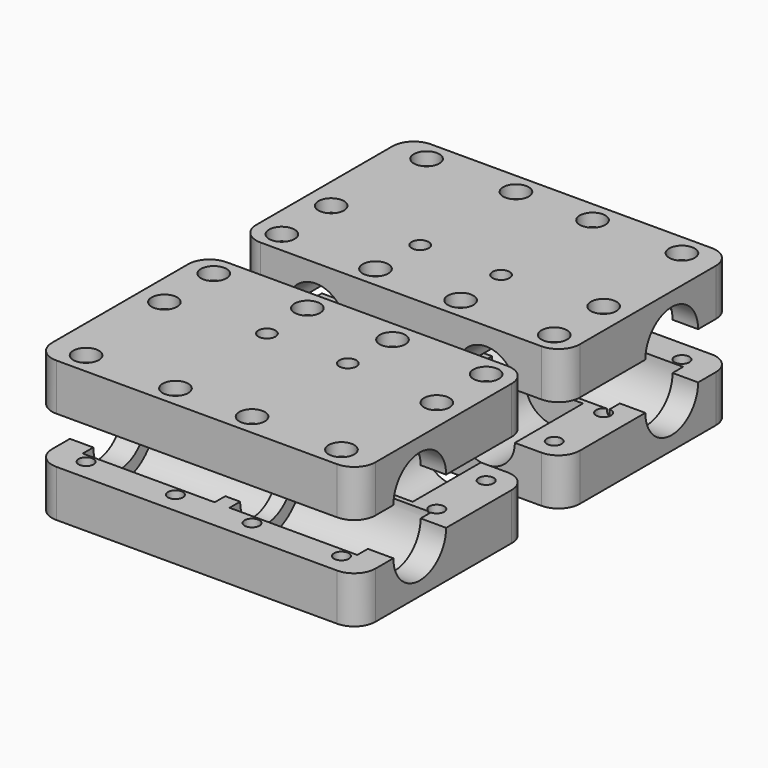
from build123d import *

# Parameters (mm, degrees)
F0_W      = 76
F0_H      = 50
F1_DEPTH  = 5.5
F2_R      = 1.75
F2_R_2    = 2
F3_DEPTH  = 11.001
F4_R      = 6.75
F5_DEPTH  = 20
F7_DEPTH  = 3
F8_R      = 7.75
F9_DEPTH  = 76.001
F11_START = -5.5
F10_R     = 10.85
F11_DEPTH = 31
F12_R     = 5
F13_START = -40
F13_DEPTH = 30
F16_R     = 3
F17_DEPTH = 3
F19_DEPTH = 3


with BuildPart() as f1:
    # F0 (on Top) → F1 (new body, symmetric)
    with BuildSketch(Plane.XY):
        Rectangle(F0_W, F0_H)
    extrude(amount=F1_DEPTH, both=True)

    # F2 (on face) → F3 (cut, through all)
    with BuildSketch(Plane.XY.offset(5.5)):
        with Locations((-30, 20)):
            Circle(F2_R)
        with Locations((-9, 20)):
            Circle(F2_R)
        with Locations((9, 20)):
            Circle(F2_R)
        with Locations((30, 20)):
            Circle(F2_R)
        with Locations((-32, -20)):
            Circle(F2_R)
        with Locations((-10, -20)):
            Circle(F2_R)
        with Locations((10, -20)):
            Circle(F2_R)
        with Locations((32, -20)):
            Circle(F2_R)
        with Locations((32, -5.5)):
            Circle(F2_R)
        with Locations((-9.5, -7.5)):
            Circle(F2_R_2)
        with Locations((9.5, -7.5)):
            Circle(F2_R_2)
        with Locations((-32, -5.5)):
            Circle(F2_R)
    extrude(amount=-F3_DEPTH, mode=Mode.SUBTRACT)

    # F4 (on face) → F5 (cut)
    with BuildSketch(Plane.XZ.offset(25)):
        with Locations((-20, 5.5)):
            Circle(F4_R)
        with Locations((20, 5.5)):
            Circle(F4_R)
    extrude(amount=-F5_DEPTH, mode=Mode.SUBTRACT)

    # F6 (on face) → F7 (cut)
    with BuildSketch(Plane(origin=(0, 0, -5.5), x_dir=(1, 0, 0), z_dir=(0, 0, -1))):
        Polygon((-33.5, 17.4019237886), (-30.5, 17.4019237886), (-29, 20), (-30.5, 22.5980762114), (-33.5, 22.5980762114), (-35, 20), align=None)
        Polygon((8.5, 17.4019237886), (11.5, 17.4019237886), (13, 20), (11.5, 22.5980762114), (8.5, 22.5980762114), (7, 20), align=None)
        Polygon((-11.5, 17.4019237886), (-8.5, 17.4019237886), (-7, 20), (-8.5, 22.5980762114), (-11.5, 22.5980762114), (-13, 20), align=None)
        Polygon((30.5, 17.4019237886), (33.5, 17.4019237886), (35, 20), (33.5, 22.5980762114), (30.5, 22.5980762114), (29, 20), align=None)
        Polygon((-33.5, 2.9019237886), (-30.5, 2.9019237886), (-29, 5.5), (-30.5, 8.0980762114), (-33.5, 8.0980762114), (-35, 5.5), align=None)
        Polygon((-31.5, -22.5980762114), (-28.5, -22.5980762114), (-27, -20), (-28.5, -17.4019237886), (-31.5, -17.4019237886), (-33, -20), align=None)
        Polygon((-10.5, -22.5980762114), (-7.5, -22.5980762114), (-6, -20), (-7.5, -17.4019237886), (-10.5, -17.4019237886), (-12, -20), align=None)
        Polygon((7.5, -22.5980762114), (10.5, -22.5980762114), (12, -20), (10.5, -17.4019237886), (7.5, -17.4019237886), (6, -20), align=None)
        Polygon((28.5, -22.5980762114), (31.5, -22.5980762114), (33, -20), (31.5, -17.4019237886), (28.5, -17.4019237886), (27, -20), align=None)
        Polygon((30.5, 2.9019237886), (33.5, 2.9019237886), (35, 5.5), (33.5, 8.0980762114), (30.5, 8.0980762114), (29, 5.5), align=None)
    extrude(amount=-F7_DEPTH, mode=Mode.SUBTRACT)

    # F8 (on face) → F9 (cut, through all)
    with BuildSketch(Plane(origin=(-38, 0, 0), x_dir=(0, -1, 0), z_dir=(-1, 0, 0))):
        with Locations((-7, 5.5)):
            Circle(F8_R)
    extrude(amount=-F9_DEPTH, mode=Mode.SUBTRACT)

    # F10 (on face) → F11 (cut)
    with BuildSketch(Plane(origin=(-38, 0, 0), x_dir=(0, -1, 0), z_dir=(-1, 0, 0)).offset(F11_START)):
        with Locations((-7, 5.5)):
            Circle(F10_R)
    extrude(amount=-F11_DEPTH, mode=Mode.SUBTRACT)

    # F12
    f12_edges = [f1.edges().sort_by_distance(p)[0] for p in [
        (38, -25, 0),
        (-38, -25, 0),
        (-38, 25, 0),
        (38, 25, 0),
    ]]
    fillet(f12_edges, radius=F12_R)

    # F10 (on face) → F13 (cut)
    with BuildSketch(Plane(origin=(-38, 0, 0), x_dir=(0, -1, 0), z_dir=(-1, 0, 0)).offset(F13_START)):
        with Locations((-7, 5.5)):
            Circle(F10_R)
    extrude(amount=-F13_DEPTH, mode=Mode.SUBTRACT)


with BuildPart() as f15_1:
    # F15: instance of F1
    add(f1.part.mirror(Plane.XY.offset(11)))

    # F16 (on face) → F17 (cut)
    with BuildSketch(Plane.XY.offset(27.5)):
        with Locations((-30, 20)):
            Circle(F16_R)
        with Locations((-9, 20)):
            Circle(F16_R)
        with Locations((-49.465674907, 3.9686970413)):
            Circle(F16_R)
        with Locations((-32, -5.5)):
            Circle(F16_R)
        with Locations((-32, -20)):
            Circle(F16_R)
        with Locations((32, -5.5)):
            Circle(F16_R)
        with Locations((32, -20)):
            Circle(F16_R)
        with Locations((10, -20)):
            Circle(F16_R)
        with Locations((-10, -20)):
            Circle(F16_R)
        with Locations((30, 20)):
            Circle(F16_R)
        with Locations((9, 20)):
            Circle(F16_R)
    extrude(amount=-F17_DEPTH, mode=Mode.SUBTRACT)


with BuildPart() as f1_1:
    add(f1.part)

    # F18 (on face) → F19 (cut)
    with BuildSketch(Plane(origin=(0, 0, -5.5), x_dir=(1, 0, 0), z_dir=(0, 0, -1))):
        Polygon((-11.5, 4.0358983849), (-7.5, 4.0358983849), (-5.5, 7.5), (-7.5, 10.9641016151), (-11.5, 10.9641016151), (-13.5, 7.5), align=None)
        Polygon((7.5, 4.0358983849), (11.5, 4.0358983849), (13.5, 7.5), (11.5, 10.9641016151), (7.5, 10.9641016151), (5.5, 7.5), align=None)
    extrude(amount=-F19_DEPTH, mode=Mode.SUBTRACT)


with BuildPart() as f21_1:
    # F21: instance of F15_1
    add(f15_1.part.mirror(Plane.XZ.offset(30)))


with BuildPart() as f21_2:
    # F21: instance of F1
    add(f1_1.part.mirror(Plane.XZ.offset(30)))


solid = Compound([f15_1.part, f1_1.part, f21_1.part, f21_2.part])
